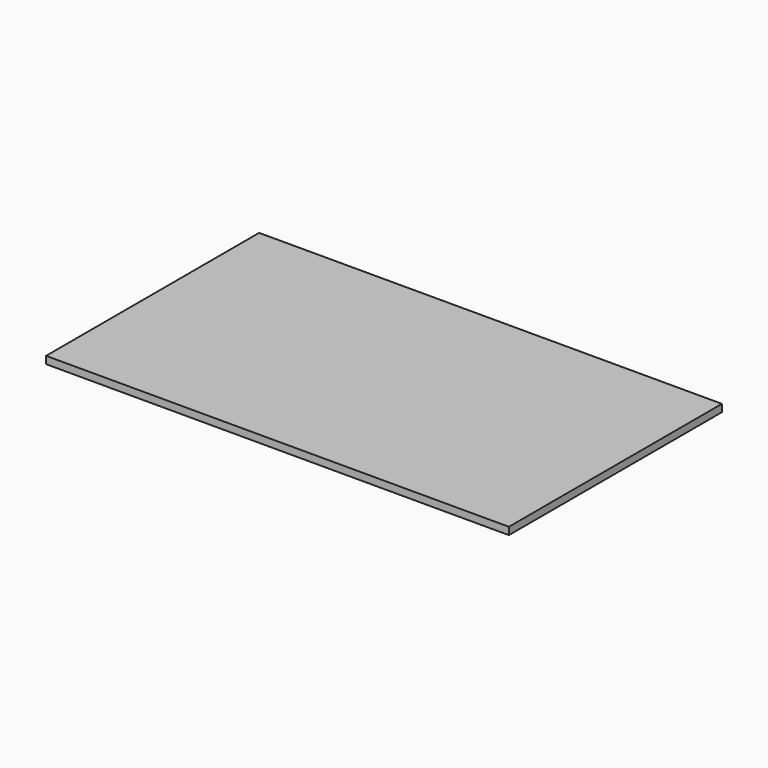
from build123d import *

# Parameters (mm, degrees)
SKETCH_W        = 18.84
SKETCH_H        = 10.84
PAD_DEPTH       = 0.3
POCKET001_DEPTH = 0.001
SKETCH002_W     = 1.487973
SKETCH002_H     = 1.931914
SKETCH002_W_2   = 1.638274
SKETCH002_W_3   = 1.9013
SKETCH002_W_4   = 6.718428
SKETCH002_W_5   = 0.715697
SKETCH002_H_2   = 0.671803
SKETCH002_H_3   = 0.701418
SKETCH002_H_4   = 0.682957
SKETCH002_W_6   = 1.291878
SKETCH002_H_5   = 0.738334
SKETCH002_H_6   = 0.6481
POCKET002_DEPTH = 0.001
SKETCH003_R     = 0.480256
SKETCH003_R_2   = 0.5
SKETCH003_W     = 0.670654
SKETCH003_H     = 1.317879
SKETCH003_W_2   = 0.670653
SKETCH003_W_3   = 0.713723
SKETCH003_R_3   = 0.4
SKETCH003_W_4   = 4.952994
SKETCH003_H_2   = 0.338404
SKETCH003_H_3   = 0.363017
SKETCH003_H_4   = 0.356861
SKETCH003_W_5   = 0.41034
SKETCH003_H_5   = 0.309326
SKETCH003_W_6   = 0.32158
SKETCH003_H_6   = 1.173725
SKETCH003_W_7   = 0.342889
SKETCH003_H_7   = 0.717704
SKETCH003_W_8   = 2.66577
SKETCH003_H_8   = 0.304358
SKETCH003_R_4   = 0.2
POCKET003_DEPTH = 0.001


with BuildPart() as part:
    # Sketch (on Face1 of Binder) → Pad (new body)
    with BuildSketch(Plane(origin=(0, 0, -9.4), x_dir=(1, 0, 0), z_dir=(0, 0, -1))):
        with Locations((18, -28.9)):
            Rectangle(SKETCH_W, SKETCH_H)
    extrude(amount=PAD_DEPTH)

    # Sketch001 (on Face6 of Pad) → Pocket001 (cut)
    with BuildSketch(Plane(origin=(0, 0, -9.7), x_dir=(1, 0, 0), z_dir=(0, 0, -1))):
        with BuildLine():
            Line((8.98, -24.58), (8.98, -33.22))
            ThreePointArc((8.98, -33.22), (9.185025, -33.714975), (9.68, -33.92))
            Line((9.68, -33.92), (26.32, -33.92))
            ThreePointArc((26.32, -33.92), (26.814975, -33.714975), (27.02, -33.22))
            Line((27.02, -33.22), (27.02, -24.58))
            ThreePointArc((27.02, -24.58), (26.814975, -24.085025), (26.32, -23.88))
            Line((26.32, -23.88), (9.68, -23.88))
            ThreePointArc((9.68, -23.88), (9.185025, -24.085025), (8.98, -24.58))
        make_face()
    extrude(amount=-POCKET001_DEPTH, mode=Mode.SUBTRACT)

    # Sketch002 (on Face15 of Pocket001) → Pocket002 (cut)
    with BuildSketch(Plane(origin=(0, 0, -9.699), x_dir=(1, 0, 0), z_dir=(0, 0, -1))):
        with Locations((12.668276, -25.475131)):
            Rectangle(SKETCH002_W, SKETCH002_H)
        with Locations((14.704847, -25.475131)):
            Rectangle(SKETCH002_W_2, SKETCH002_H)
        with Locations((16.91802, -25.475131)):
            Rectangle(SKETCH002_W_3, SKETCH002_H)
        with Locations((21.871041, -25.475131)):
            Rectangle(SKETCH002_W_4, SKETCH002_H)
        with Locations((9.587848, -29.256862)):
            Rectangle(SKETCH002_W_5, SKETCH002_H_2)
        with Locations((9.587848, -30.52661)):
            Rectangle(SKETCH002_W_5, SKETCH002_H_3)
        with Locations((9.587848, -31.848242)):
            Rectangle(SKETCH002_W_5, SKETCH002_H_4)
        with Locations((26.124061, -29.217495)):
            Rectangle(SKETCH002_W_6, SKETCH002_H_5)
        with Locations((26.124061, -30.452157)):
            Rectangle(SKETCH002_W_6, SKETCH002_H_6)
        with Locations((26.124061, -31.829052)):
            Rectangle(SKETCH002_W_6, SKETCH002_H_5)
        Polygon((10.195697, -28.084638), (10.195697, -32.780541), (11.156489, -33.534092), (24.030916, -33.534092), (25.228122, -32.397384), (25.228122, -27.902392), (23.914452, -26.988171), (11.628569, -26.988171), align=None)
        Polygon((10.649023, -28.470931), (11.840284, -27.55935), (23.706315, -27.55935), (24.742934, -28.280763), (24.742934, -32.189171), (23.832297, -33.053791), (11.445835, -33.053791), (10.649023, -32.428849), align=None, mode=Mode.SUBTRACT)
    extrude(amount=-POCKET002_DEPTH, mode=Mode.SUBTRACT)

    # Sketch003 (on Face83 of Pocket002) → Pocket003 (cut)
    with BuildSketch(Plane(origin=(0, 0, -9.699), x_dir=(1, 0, 0), z_dir=(0, 0, -1))):
        with Locations((20.29553, -32.239323)):
            Circle(SKETCH003_R)
        with Locations((23.400045, -29.277054)):
            Circle(SKETCH003_R_2)
        with Locations((12.800486, -28.468289)):
            Rectangle(SKETCH003_W, SKETCH003_H)
        with Locations((13.957209, -28.468289)):
            Rectangle(SKETCH003_W_2, SKETCH003_H)
        with Locations((15.104702, -28.468289)):
            Rectangle(SKETCH003_W_3, SKETCH003_H)
        with BuildLine():
            Line((11.248014, -29.877229), (11.248014, -32.303791))
            ThreePointArc((11.248014, -32.303791), (11.394461, -32.657344), (11.748014, -32.803791))
            Line((11.748014, -32.803791), (16.949894, -32.803791))
            ThreePointArc((16.949894, -32.803791), (17.303447, -32.657344), (17.449894, -32.303791))
            Line((17.449894, -32.303791), (17.449894, -29.877229))
            ThreePointArc((17.449894, -29.877229), (17.303447, -29.523676), (16.949894, -29.377229))
            Line((16.949894, -29.377229), (11.748014, -29.377229))
            ThreePointArc((11.748014, -29.377229), (11.394461, -29.523676), (11.248014, -29.877229))
        make_face()
        with Locations((14.831495, -29.911236)):
            Circle(SKETCH003_R_3, mode=Mode.SUBTRACT)
        with Locations((15.995043, -29.911236)):
            Circle(SKETCH003_R_3, mode=Mode.SUBTRACT)
        with Locations((14.374179, -30.672177)):
            Rectangle(SKETCH003_W_4, SKETCH003_H_2, mode=Mode.SUBTRACT)
        with Locations((14.374179, -31.484345)):
            Rectangle(SKETCH003_W_4, SKETCH003_H_3, mode=Mode.SUBTRACT)
        with Locations((14.374179, -32.256521)):
            Rectangle(SKETCH003_W_4, SKETCH003_H_4, mode=Mode.SUBTRACT)
        with BuildLine():
            Line((17.699894, -30.064499), (17.699894, -31.506425))
            Line((17.699894, -31.506425), (20.283536, -31.506425))
            ThreePointArc((20.283536, -31.506425), (20.818146, -31.388075), (21.294236, -31.117605))
            Line((20.141929, -29.985008), (21.294236, -31.117605))
            ThreePointArc((19.846798, -30.064499), (19.999169, -30.042595), (20.141929, -29.985008))
            Line((17.699894, -30.064499), (19.846798, -30.064499))
        make_face()
        Polygon((20.351476, -29.854358), (20.542978, -29.604508), (21.694934, -30.651904), (21.509854, -30.907592), align=None)
        with BuildLine():
            Line((20.63387, -27.80935), (21.989705, -27.80935))
            Line((21.989705, -27.80935), (21.989705, -29.792339))
            ThreePointArc((21.840453, -30.391624), (21.947748, -30.100118), (21.989705, -29.792339))
            Line((21.840453, -30.391624), (20.63387, -29.364835))
            Line((20.63387, -29.364835), (20.63387, -27.80935))
        make_face()
        with BuildLine():
            Line((17.452358, -28.618032), (17.452358, -28.645678))
            ThreePointArc((17.452358, -28.645678), (17.598805, -28.999231), (17.952358, -29.145678))
            Line((17.952358, -29.145678), (19.5124, -29.145678))
            ThreePointArc((19.5124, -29.145678), (19.865953, -28.999231), (20.0124, -28.645678))
            Line((20.0124, -28.645678), (20.0124, -28.618032))
            ThreePointArc((20.0124, -28.618032), (19.865953, -28.264479), (19.5124, -28.118032))
            Line((19.5124, -28.118032), (17.952358, -28.118032))
            ThreePointArc((17.952358, -28.118032), (17.598805, -28.264479), (17.452358, -28.618032))
        make_face()
        Polygon((17.896748, -32.217945), (17.55851, -32.803791), (19.287113, -32.803791), (18.948875, -32.217945), align=None)
        with Locations((22.444875, -29.280899)):
            Rectangle(SKETCH003_W_5, SKETCH003_H_5)
        with Locations((23.397809, -30.613916)):
            Rectangle(SKETCH003_W_6, SKETCH003_H_6)
        with Locations((24.321489, -29.280899)):
            Rectangle(SKETCH003_W_7, SKETCH003_H_5)
        with Locations((23.397809, -28.168202)):
            Rectangle(SKETCH003_W_6, SKETCH003_H_7)
        with Locations((23.160049, -31.602958)):
            Rectangle(SKETCH003_W_8, SKETCH003_H_8)
        Polygon((21.827164, -32.005137), (21.827164, -32.803791), (23.723867, -32.803791), (24.492934, -32.073588), (24.492934, -32.005137), align=None)
        with Locations((14.831495, -29.911236)):
            Circle(SKETCH003_R_4)
        with Locations((15.995043, -29.911236)):
            Circle(SKETCH003_R_4)
    extrude(amount=-POCKET003_DEPTH, mode=Mode.SUBTRACT)


solid = part.part
